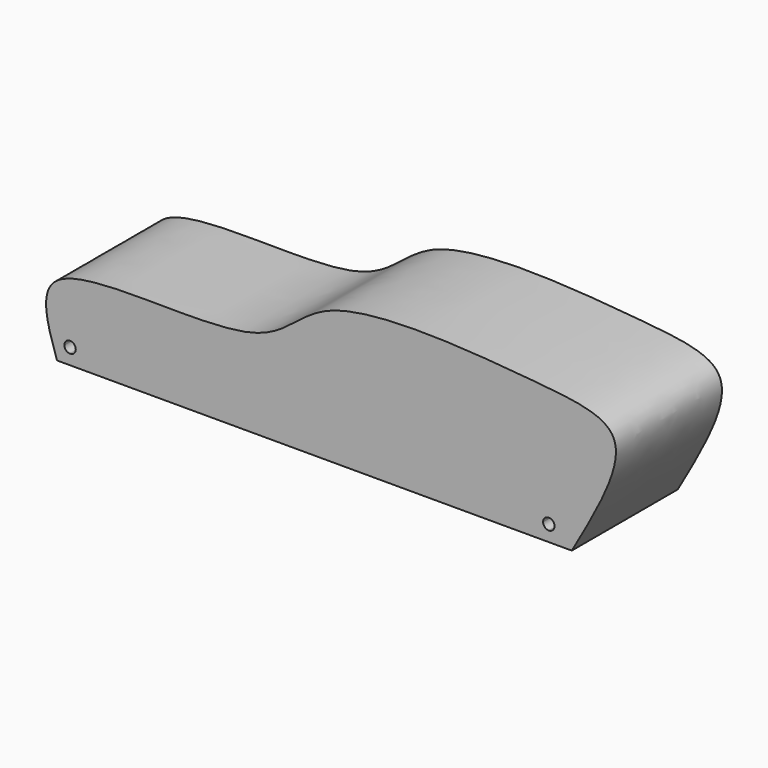
from build123d import *

# Parameters (mm, degrees)
F1_DEPTH = 25
F4_DEPTH = 25.0010001
F5_DEPTH = 25.0010001


with BuildPart() as f1:
    # F0 (on Front) → F1 (new body)
    with BuildSketch(Plane.XZ):
        with BuildLine():
            add(Edge.make_bspline(
                [(-46.2229065597, 0), (-47.9950928347, 5.3411294971), (-52.7238559863, 19.5929814109), (-5.612931802, 11.7101438379), (2.2574648294, 29.3670702092), (42.7285739749, 26.0402695948), (64.4986966136, 23.7819143402), (55.6870446433, 8.3790124593), (50.8936010301, 0)],
                knots=[0, 0, 0, 0, 0.1265622146, 0.3377087077, 0.4802975139, 0.6970883102, 0.8352193085, 1, 1, 1, 1], degree=3))
            Line((-46.2229065597, 0), (-42.1789698303, 0))
            Line((-42.1789698303, 0), (0, 0))
            Line((0, 0), (50.8936010301, 0))
        make_face()
    extrude(amount=F1_DEPTH)

    # F3 (on face) → F4 (cut, through all)
    with BuildSketch(Plane(origin=(0, 0, 0), x_dir=(-1, 0, 0), z_dir=(0, 1, 0))):
        with BuildLine():
            ThreePointArc((-45.4863417327, 3), (-47.3214815225, 3.7601397898), (-46.5613417327, 1.925))
            ThreePointArc((-46.5613417327, 1.925), (-45.801201943, 2.2398602102), (-45.4863417327, 3))
        make_face()
    extrude(amount=-F4_DEPTH, mode=Mode.SUBTRACT)

    # F3 (on face) → F5 (cut, through all)
    with BuildSketch(Plane(origin=(0, 0, 0), x_dir=(-1, 0, 0), z_dir=(0, 1, 0))):
        with BuildLine():
            ThreePointArc((44.8195119023, 3), (42.9843721126, 3.7601397898), (43.7445119023, 1.925))
            ThreePointArc((43.7445119023, 1.925), (44.5046516921, 2.2398602102), (44.8195119023, 3))
        make_face()
    extrude(amount=-F5_DEPTH, mode=Mode.SUBTRACT)


solid = f1.part
